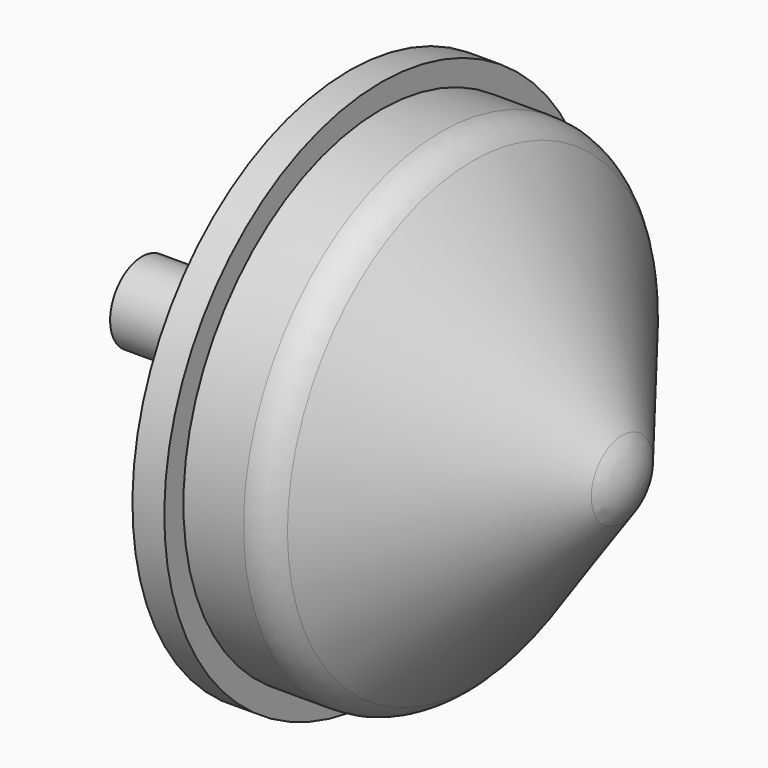
from build123d import *

# Parameters (mm, degrees)
F0_W   = 22
F0_H   = 5
F0_W_2 = 10
F0_H_2 = 31
F2_R   = 5


with BuildPart() as f1:
    # F0 (on Front) → F1 (revolve)
    with BuildSketch(Plane.XZ):
        with Locations((-11, 2.5)):
            Rectangle(F0_W, F0_H)
        Polygon((0, 5), (0, 0), (4, 0), (4, 30), (0, 25), align=None)
        Polygon((4, 30), (4, 0), (8, 0), (8, 31), (8, 34), (4, 34), align=None)
        with Locations((13, 15.5)):
            Rectangle(F0_W_2, F0_H_2)
        with BuildLine():
            Line((18, 31), (18, 0))
            Line((18, 0), (39.907237, 0))
            ThreePointArc((39.907237, 0), (39.482109, 2.557819), (38.25244, 4.840599))
            Line((38.25244, 4.840599), (18, 31))
        make_face()
    revolve(axis=Axis((-11, 0, 0), (1, 0, 0)))

    # F2
    f2_edges = [f1.edges().sort_by_distance(p)[0] for p in [
        (18, 0, -31),
    ]]
    fillet(f2_edges, radius=F2_R)


solid = f1.part
